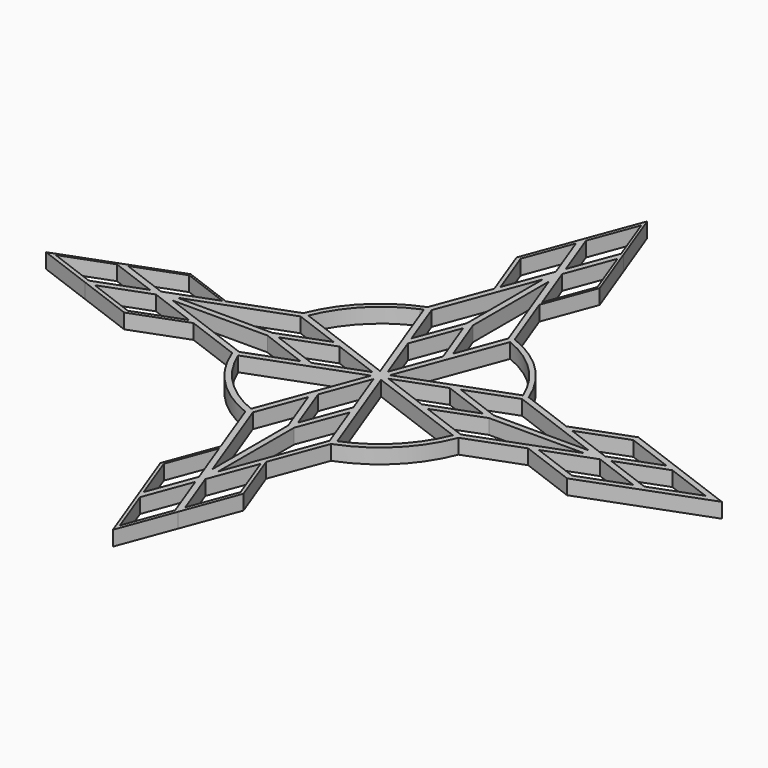
from build123d import *

# Parameters (mm, degrees)
F1_DEPTH = 5


with BuildPart() as f1:
    # F0 (on Top) → F1 (new body)
    with BuildSketch(Plane.XY):
        Polygon((-7.4373828532, 57.3930200385), (-6.9956349455, 56.209873024), (0, 74.9464973654), (-6.9956349455, 93.6831217067), (-13.9912698911, 74.9464973654), align=None)
        Polygon((-0.8457273018, 75.0476539377), (-6.7739341111, 59.16995522), (-12.7021409204, 75.0476539377), (-6.7739341111, 90.9253526553), align=None, mode=Mode.SUBTRACT)
        Polygon((-6.9956349455, 93.6831217067), (0, 74.9464973654), (6.9956349455, 93.6831217067), (0, 112.4197460481), align=None)
        Polygon((0.2217008345, 109.6619769966), (6.1499076438, 93.784278279), (0.2217008345, 77.9065795614), (-5.7065059748, 93.784278279), align=None, mode=Mode.SUBTRACT)
        Polygon((6.9956349455, 93.6831217067), (0, 74.9464973654), (6.9956349455, 56.209873024), (7.5293490137, 57.6393358359), (13.9912698911, 74.9464973654), align=None)
        Polygon((7.21733578, 90.9253526553), (13.1455425893, 75.0476539377), (7.21733578, 59.16995522), (1.2891289707, 75.0476539377), align=None, mode=Mode.SUBTRACT)
        Polygon((0, 37.4732486827), (6.9956349455, 18.7366243413), (13.9912698911, 37.4732486827), (6.9956349455, 56.209873024), (0, 74.9464973654), align=None)
        Polygon((7.21733578, 21.6967065374), (1.2217008345, 37.574405255), (1.2217008345, 69.5103975424), (13.1455425893, 37.574405255), align=None, mode=Mode.SUBTRACT)
        Polygon((-13.9912698911, 37.4732486827), (-6.9956349455, 18.7366243413), (0, 37.4732486827), (0, 74.9464973654), (-6.9956349455, 56.209873024), align=None)
        Polygon((-0.7782991655, 37.574405255), (-6.7739341111, 21.6967065374), (-12.7021409204, 37.574405255), (-0.7782991655, 69.5103975424), align=None, mode=Mode.SUBTRACT)
        Polygon((-6.9956349455, 18.7366243413), (0, 0), (6.9956349455, 18.7366243413), (0, 37.4732486827), align=None)
        Polygon((0.2217008345, 2.960082196), (-5.7065059748, 18.8377809136), (0.2217008345, 34.7154796313), (6.1499076438, 18.8377809136), align=None, mode=Mode.SUBTRACT)
        with BuildLine():
            Line((6.9956349455, 18.7366243413), (0, 0))
            Line((0, 0), (18.7366243413, 6.9956349455))
            Line((18.7366243413, 6.9956349455), (37.4732486827, 13.9912698911))
            ThreePointArc((37.4732486827, 13.9912698911), (28.2842712475, 28.2842712475), (13.9912698911, 37.4732486827))
            Line((13.9912698911, 37.4732486827), (6.9956349455, 18.7366243413))
        make_face()
        with BuildLine():
            Line((1.9251347893, 1.8045905271), (14.7955350767, 36.2757796592))
            ThreePointArc((14.7955350767, 36.2757796592), (27.7988653008, 27.6783210386), (36.3963239214, 14.6749908145))
            Line((36.3963239214, 14.6749908145), (1.9251347893, 1.8045905271))
        make_face(mode=Mode.SUBTRACT)
        with BuildLine():
            Line((6.9956349455, 56.209873024), (13.9912698911, 37.4732486827))
            ThreePointArc((13.9912698911, 37.4732486827), (28.2842712475, 28.2842712475), (37.4732486827, 13.9912698911))
            Line((37.4732486827, 13.9912698911), (56.209873024, 6.9956349455))
            Line((56.209873024, 6.9956349455), (57.6393358359, 7.5293490137))
            Line((57.6393358359, 7.5293490137), (56.3001704501, 8.0293490137))
            Line((56.3001704501, 8.0293490137), (38.2461327523, 14.7701287147))
            ThreePointArc((38.2461327523, 14.7701287147), (28.9907831637, 28.9467641394), (14.7966128721, 38.1751994187))
            Line((14.7966128721, 38.1751994187), (7.5293490137, 57.6393358359))
            Line((7.5293490137, 57.6393358359), (6.9956349455, 56.209873024))
        make_face()
        with BuildLine():
            Line((-56.209873024, 6.9956349455), (-37.4732486827, 13.9912698911))
            ThreePointArc((-37.4732486827, 13.9912698911), (-28.6737428311, 27.8893612701), (-15.0250008461, 37.0708692854))
            Line((-15.0250008461, 37.0708692854), (-14.5912080836, 38.2327097895))
            ThreePointArc((-14.5912080836, 38.2327097895), (-28.7014097963, 29.1358891634), (-37.9826996881, 15.1463360675))
            Line((-37.9826996881, 15.1463360675), (-58.0114231685, 7.6682740996))
            Line((-58.0114231685, 7.6682740996), (-56.209873024, 6.9956349455))
        make_face()
        with BuildLine():
            ThreePointArc((-15.0250008461, 37.0708692854), (-14.5095302876, 37.2756425945), (-13.9912698911, 37.4732486827))
            Line((-13.9912698911, 37.4732486827), (-6.9956349455, 56.209873024))
            Line((-6.9956349455, 56.209873024), (-7.4373828532, 57.3930200385))
            Line((-7.4373828532, 57.3930200385), (-14.5912080836, 38.2327097895))
            Line((-14.5912080836, 38.2327097895), (-15.0250008461, 37.0708692854))
        make_face()
        with BuildLine():
            Line((-18.7366243413, 6.9956349455), (0, 0))
            Line((0, 0), (-6.9956349455, 18.7366243413))
            Line((-6.9956349455, 18.7366243413), (-13.9912698911, 37.4732486827))
            ThreePointArc((-13.9912698911, 37.4732486827), (-14.5095302876, 37.2756425945), (-15.0250008461, 37.0708692854))
            ThreePointArc((-15.0250008461, 37.0708692854), (-28.6737428311, 27.8893612701), (-37.4732486827, 13.9912698911))
            Line((-37.4732486827, 13.9912698911), (-18.7366243413, 6.9956349455))
        make_face()
        with BuildLine():
            ThreePointArc((-36.0540788247, 14.896691649), (-27.8111096303, 27.5409159494), (-15.3843983132, 36.1082839898))
            ThreePointArc((-15.3843983132, 36.1082839898), (-14.9201030706, 36.3058940742), (-14.45328998, 36.4974804937))
            Line((-14.45328998, 36.4974804937), (-1.5828896926, 2.0262913616))
            Line((-1.5828896926, 2.0262913616), (-36.0540788247, 14.896691649))
        make_face(mode=Mode.SUBTRACT)
        Polygon((37.4732486827, 13.9912698911), (18.7366243413, 6.9956349455), (37.4732486827, 0), (74.9464973654, 0), (56.209873024, 6.9956349455), align=None)
        Polygon((37.4732486827, 1), (21.5955499651, 6.9956349455), (37.4732486827, 12.9238417549), (69.4092409701, 1), align=None, mode=Mode.SUBTRACT)
        Polygon((18.7366243413, 6.9956349455), (0, 0), (18.7366243413, -6.9956349455), (37.4732486827, 0), align=None)
        Polygon((18.7366243413, -5.9282068093), (2.8589256237, 0), (18.7366243413, 5.9282068093), (34.614323059, 0), align=None, mode=Mode.SUBTRACT)
        Polygon((56.209873024, 6.9956349455), (74.9464973654, 0), (93.6831217067, 6.9956349455), (74.9464973654, 13.9912698911), (57.6393358359, 7.5293490137), align=None)
        Polygon((74.9464973654, 1.0674281362), (59.0687986478, 6.9956349455), (74.9464973654, 12.9238417549), (90.824196083, 6.9956349455), align=None, mode=Mode.SUBTRACT)
        Polygon((93.6831217067, 6.9956349455), (74.9464973654, 0), (93.6831217067, -6.9956349455), (112.4197460481, 0), align=None)
        Polygon((93.6831217067, -5.9282068093), (77.8054229891, 0), (93.6831217067, 5.9282068093), (109.5608204243, 0), align=None, mode=Mode.SUBTRACT)
        Polygon((93.6831217067, -6.9956349455), (74.9464973654, 0), (56.209873024, -6.9956349455), (57.6393358359, -7.5293490137), (74.9464973654, -13.9912698911), align=None)
        Polygon((74.9464973654, -12.9238417549), (59.0687986478, -6.9956349455), (74.9464973654, -1.0674281362), (90.824196083, -6.9956349455), align=None, mode=Mode.SUBTRACT)
        Polygon((37.4732486827, 0), (18.7366243413, -6.9956349455), (37.4732486827, -13.9912698911), (56.209873024, -6.9956349455), (74.9464973654, 0), align=None)
        Polygon((37.4732486827, -1), (69.4092409701, -1), (37.4732486827, -12.9238417549), (21.5955499651, -6.9956349455), align=None, mode=Mode.SUBTRACT)
        with BuildLine():
            ThreePointArc((37.4732486827, -13.9912698911), (28.2842712475, -28.2842712475), (13.9912698911, -37.4732486827))
            Line((13.9912698911, -37.4732486827), (6.9956349455, -56.209873024))
            Line((6.9956349455, -56.209873024), (7.310483144, -57.0531406424))
            Line((7.310483144, -57.0531406424), (14.2599095347, -38.4402780956))
            ThreePointArc((14.2599095347, -38.4402780956), (28.7980210171, -29.1834539679), (38.2473032728, -14.7696916812))
            Line((38.2473032728, -14.7696916812), (56.3001704501, -8.0293490137))
            Line((56.3001704501, -8.0293490137), (57.6393358359, -7.5293490137))
            Line((57.6393358359, -7.5293490137), (56.209873024, -6.9956349455))
            Line((56.209873024, -6.9956349455), (37.4732486827, -13.9912698911))
        make_face()
        with BuildLine():
            Line((18.7366243413, -6.9956349455), (0, 0))
            Line((0, 0), (6.9956349455, -18.7366243413))
            Line((6.9956349455, -18.7366243413), (13.9912698911, -37.4732486827))
            ThreePointArc((13.9912698911, -37.4732486827), (28.2842712475, -28.2842712475), (37.4732486827, -13.9912698911))
            Line((37.4732486827, -13.9912698911), (18.7366243413, -6.9956349455))
        make_face()
        with BuildLine():
            Line((14.5738342422, -36.1746230869), (1.7034339548, -1.7034339548))
            Line((1.7034339548, -1.7034339548), (36.1746230869, -14.5738342422))
            ThreePointArc((36.1746230869, -14.5738342422), (27.5771644663, -27.5771644663), (14.5738342422, -36.1746230869))
        make_face(mode=Mode.SUBTRACT)
        Polygon((-18.7366243413, -6.9956349455), (0, 0), (-18.7366243413, 6.9956349455), (-37.4732486827, 0), align=None)
        Polygon((-2.7383813615, 0.3228574068), (-18.6160800791, -5.6053494025), (-34.4937787968, 0.3228574068), (-18.6160800791, 6.2510642161), align=None, mode=Mode.SUBTRACT)
        Polygon((-37.4732486827, 0), (-18.7366243413, 6.9956349455), (-37.4732486827, 13.9912698911), (-56.209873024, 6.9956349455), (-74.9464973654, 0), align=None)
        Polygon((-21.4750057029, 7.3184923523), (-37.3527044205, 1.3228574068), (-69.2886967079, 1.3228574068), (-37.3527044205, 13.2466991616), align=None, mode=Mode.SUBTRACT)
        Polygon((-37.4732486827, -13.9912698911), (-18.7366243413, -6.9956349455), (-37.4732486827, 0), (-74.9464973654, 0), (-56.209873024, -6.9956349455), align=None)
        Polygon((-37.3527044205, -0.6771425932), (-21.4750057029, -6.6727775388), (-37.3527044205, -12.6009843481), (-69.2886967079, -0.6771425932), align=None, mode=Mode.SUBTRACT)
        with BuildLine():
            Line((-6.9956349455, -18.7366243413), (0, 0))
            Line((0, 0), (-18.7366243413, -6.9956349455))
            Line((-18.7366243413, -6.9956349455), (-37.4732486827, -13.9912698911))
            ThreePointArc((-37.4732486827, -13.9912698911), (-37.3458271608, -14.3279165853), (-37.2153813915, -14.6634030117))
            ThreePointArc((-37.2153813915, -14.6634030117), (-28.0286023337, -28.5376497144), (-13.9912698911, -37.4732486827))
            Line((-13.9912698911, -37.4732486827), (-6.9956349455, -18.7366243413))
        make_face()
        with BuildLine():
            Line((-1.8045905271, -1.4817331203), (-14.6749908145, -35.9529222524))
            ThreePointArc((-14.6749908145, -35.9529222524), (-27.6783210386, -27.3554636318), (-36.2757796592, -14.3521334077))
            Line((-36.2757796592, -14.3521334077), (-1.8045905271, -1.4817331203))
        make_face(mode=Mode.SUBTRACT)
        Polygon((6.9956349455, -18.7366243413), (0, 0), (-6.9956349455, -18.7366243413), (0, -37.4732486827), align=None)
        Polygon((-0.1011565723, -2.6372247892), (5.827050237, -18.5149235069), (-0.1011565723, -34.3926222245), (-6.0293633816, -18.5149235069), align=None, mode=Mode.SUBTRACT)
        Polygon((-56.209873024, -6.9956349455), (-74.9464973654, 0), (-93.6831217067, -6.9956349455), (-74.9464973654, -13.9912698911), (-56.9810367882, -7.2835619531), align=None)
        Polygon((-74.8259531032, -12.6009843481), (-90.7036518208, -6.6727775388), (-74.8259531032, -0.7445707295), (-58.9482543856, -6.6727775388), align=None, mode=Mode.SUBTRACT)
        Polygon((-93.6831217067, 6.9956349455), (-74.9464973654, 0), (-56.209873024, 6.9956349455), (-58.0114231685, 7.6682740996), (-74.9464973654, 13.9912698911), align=None)
        Polygon((-90.7036518208, 7.3184923523), (-74.8259531032, 13.2466991616), (-58.9482543856, 7.3184923523), (-74.8259531032, 1.390285543), align=None, mode=Mode.SUBTRACT)
        Polygon((-93.6831217067, -6.9956349455), (-74.9464973654, 0), (-93.6831217067, 6.9956349455), (-112.4197460481, 0), align=None)
        Polygon((-109.4402761622, 0.3228574068), (-93.5625774445, 6.2510642161), (-77.6848787269, 0.3228574068), (-93.5625774445, -5.6053494025), align=None, mode=Mode.SUBTRACT)
        with BuildLine():
            Line((-6.9956349455, -56.209873024), (-13.9912698911, -37.4732486827))
            ThreePointArc((-13.9912698911, -37.4732486827), (-28.0286023337, -28.5376497144), (-37.2153813915, -14.6634030117))
            Line((-37.2153813915, -14.6634030117), (-38.3681742414, -14.2329883437))
            ThreePointArc((-38.3681742414, -14.2329883437), (-29.1556015148, -28.7261871431), (-14.8151520653, -38.1747752529))
            Line((-14.8151520653, -38.1747752529), (-7.5385394255, -57.6639507988))
            Line((-7.5385394255, -57.6639507988), (-6.9956349455, -56.209873024))
        make_face()
        with BuildLine():
            ThreePointArc((-37.2153813915, -14.6634030117), (-37.3458271608, -14.3279165853), (-37.4732486827, -13.9912698911))
            Line((-37.4732486827, -13.9912698911), (-56.209873024, -6.9956349455))
            Line((-56.209873024, -6.9956349455), (-56.9810367882, -7.2835619531))
            Line((-56.9810367882, -7.2835619531), (-38.3681742414, -14.2329883437))
            Line((-38.3681742414, -14.2329883437), (-37.2153813915, -14.6634030117))
        make_face()
        Polygon((13.9912698911, -37.4732486827), (6.9956349455, -18.7366243413), (0, -37.4732486827), (0, -74.9464973654), (6.9956349455, -56.209873024), align=None)
        Polygon((0.8988434277, -37.2515478482), (6.8944783733, -21.3738491306), (12.8226851826, -37.2515478482), (0.8988434277, -69.1875401356), align=None, mode=Mode.SUBTRACT)
        Polygon((0, -37.4732486827), (-6.9956349455, -18.7366243413), (-13.9912698911, -37.4732486827), (-6.9956349455, -56.209873024), (0, -74.9464973654), align=None)
        Polygon((-7.0967915178, -21.3738491306), (-1.1011565723, -37.2515478482), (-1.1011565723, -69.1875401356), (-13.0249983271, -37.2515478482), align=None, mode=Mode.SUBTRACT)
        Polygon((-6.9956349455, -93.6831217067), (0, -74.9464973654), (-6.9956349455, -56.209873024), (-7.5385394255, -57.6639507988), (-13.9912698911, -74.9464973654), align=None)
        Polygon((-13.0249983271, -74.7247965309), (-7.0967915178, -58.8470978133), (-1.1685847085, -74.7247965309), (-7.0967915178, -90.6024952485), align=None, mode=Mode.SUBTRACT)
        Polygon((6.9956349455, -56.209873024), (0, -74.9464973654), (6.9956349455, -93.6831217067), (13.9912698911, -74.9464973654), (7.310483144, -57.0531406424), align=None)
        Polygon((12.8226851826, -74.7247965309), (6.8944783733, -90.6024952485), (0.9662715639, -74.7247965309), (6.8944783733, -58.8470978133), align=None, mode=Mode.SUBTRACT)
        Polygon((6.9956349455, -93.6831217067), (0, -74.9464973654), (-6.9956349455, -93.6831217067), (0, -112.4197460481), align=None)
        Polygon((-0.1011565723, -109.3391195899), (-6.0293633816, -93.4614208722), (-0.1011565723, -77.5837221546), (5.827050237, -93.4614208722), align=None, mode=Mode.SUBTRACT)
        Polygon((112.4197460481, 0), (93.6831217067, -6.9956349455), (74.9464973654, -13.9912698911), (57.6393358359, -7.5293490137), (56.3001704501, -8.0293490137), (74.9464973654, -14.9912698911), (115.0980768196, 0), (74.9464973654, 14.9912698911), (56.3001704501, 8.0293490137), (57.6393358359, 7.5293490137), (74.9464973654, 13.9912698911), (93.6831217067, 6.9956349455), align=None)
        with BuildLine():
            Line((-56.209873024, 6.9956349455), (-37.4732486827, 13.9912698911))
            ThreePointArc((-37.4732486827, 13.9912698911), (-28.6737428311, 27.8893612701), (-15.0250008461, 37.0708692854))
            Line((-15.0250008461, 37.0708692854), (-14.5912080836, 38.2327097895))
            ThreePointArc((-14.5912080836, 38.2327097895), (-28.7014097963, 29.1358891634), (-37.9826996881, 15.1463360675))
            Line((-37.9826996881, 15.1463360675), (-58.0114231685, 7.6682740996))
            Line((-58.0114231685, 7.6682740996), (-56.209873024, 6.9956349455))
        make_face()
        with BuildLine():
            Line((-6.9956349455, -56.209873024), (-13.9912698911, -37.4732486827))
            ThreePointArc((-13.9912698911, -37.4732486827), (-28.0286023337, -28.5376497144), (-37.2153813915, -14.6634030117))
            Line((-37.2153813915, -14.6634030117), (-38.3681742414, -14.2329883437))
            ThreePointArc((-38.3681742414, -14.2329883437), (-29.1556015148, -28.7261871431), (-14.8151520653, -38.1747752529))
            Line((-14.8151520653, -38.1747752529), (-7.5385394255, -57.6639507988))
            Line((-7.5385394255, -57.6639507988), (-6.9956349455, -56.209873024))
        make_face()
    extrude(amount=F1_DEPTH)


solid = f1.part
